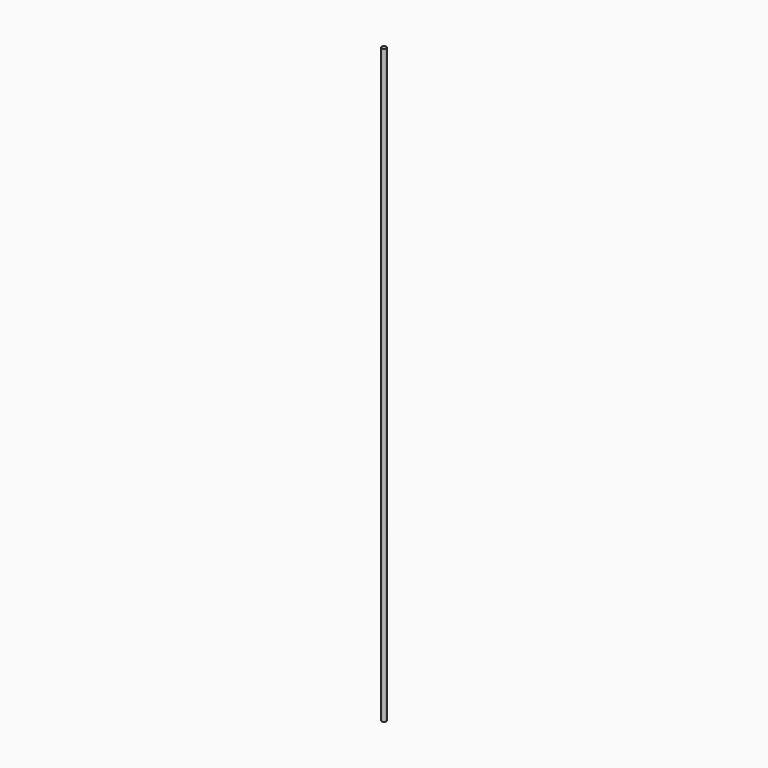
from build123d import *

# Parameters (mm, degrees)
CYLINDER_R     = 4
CYLINDER_DEPTH = 990.6


with BuildPart() as part:
    # Cylinder → Cylinder (new body)
    with BuildSketch(Plane.XY):
        Circle(CYLINDER_R)
    extrude(amount=CYLINDER_DEPTH)


solid = part.part
